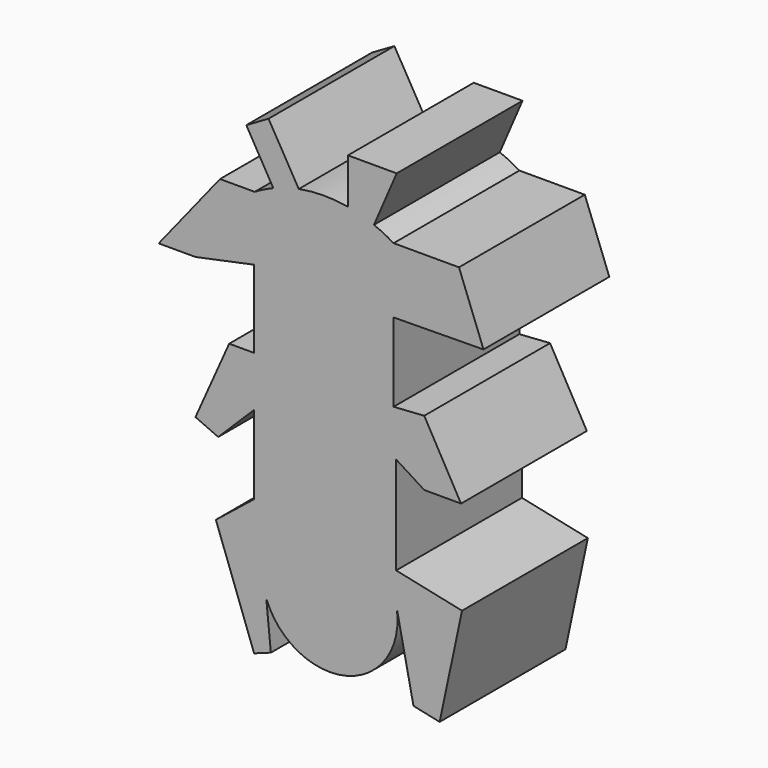
from build123d import *

# Parameters (mm, degrees)
F1_DEPTH = 25.4


with BuildPart() as f1:
    # F0 (on Front) → F1 (new body)
    with BuildSketch(Plane.XZ):
        with BuildLine():
            Line((-12.4426856389, -12.9730125086), (-13.1896968379, -5.4903274543))
            ThreePointArc((-13.1896968379, -5.4903274543), (-0.1668346208, -12.2836148574), (7.8865187243, 0))
            Line((7.8865187243, 0), (10.5906810166, -13.0574683954))
            Line((10.5906810166, -13.0574683954), (14.8144917242, -13.957073912))
            Line((14.8144917242, -13.957073912), (18.4332933277, 3.033854533))
            Line((18.4332933277, 3.033854533), (7.791120559, 5.3004706278))
            Line((7.791120559, 5.3004706278), (7.791120559, 21.074494347))
            Line((7.791120559, 21.074494347), (12.3297581449, 18.2102192193))
            Line((12.3297581449, 18.2102192193), (18.2683356106, 18.2102192193))
            Line((18.2683356106, 18.2102192193), (12.3297581449, 28.7676900625))
            Line((12.3297581449, 28.7676900625), (7.380944211, 28.4377671778))
            Line((7.380944211, 28.4377671778), (7.380944211, 41.1397255957))
            Line((7.380944211, 41.1397255957), (21.8974649906, 41.3046851754))
            Line((21.8974649906, 41.3046851754), (17.9384145886, 51.6971945763))
            Line((17.9384145886, 51.6971945763), (7.380944211, 51.6971945763))
            ThreePointArc((7.380944211, 51.6971945763), (5.8269963178, 52.5462179029), (4.209248367, 53.2662777833))
            ThreePointArc((4.209248367, 53.2662777833), (2.1348058911, 53.9718233781), (0, 54.4654932873))
            ThreePointArc((0, 54.4654932873), (-3.971449067, 54.80540535), (-7.938379177, 54.4162865973))
            ThreePointArc((-7.938379177, 54.4162865973), (-10.0209611702, 53.9098413782), (-12.0437239792, 53.2012758293))
            ThreePointArc((-12.0437239792, 53.2012758293), (-13.577773448, 52.5074144495), (-15.053678304, 51.6971945763))
            Line((-15.053678304, 51.6971945763), (-20.6623356789, 51.6971945763))
            Line((-20.6623356789, 51.6971945763), (-30.5599626154, 39.3251590431))
            Line((-30.5599626154, 39.3251590431), (-24.621386081, 39.3251590431))
            Line((-24.621386081, 39.3251590431), (-15.1529135182, 41.3046851754))
            Line((-15.1529135182, 41.3046851754), (-15.1529135182, 28.7676900625))
            Line((-15.1529135182, 28.7676900625), (-19.177692011, 28.7676900625))
            Line((-19.177692011, 28.7676900625), (-24.621386081, 16.560614109))
            Line((-24.621386081, 16.560614109), (-20.9508969498, 14.9237749517))
            Line((-20.9508969498, 14.9237749517), (-15.1529135182, 20.6647776067))
            Line((-15.1529135182, 20.6647776067), (-15.1529135182, 7.9636173323))
            Line((-15.1529135182, 7.9636173323), (-21.3221795857, 3.033854533))
            Line((-21.3221795857, 3.033854533), (-15.1529135182, -13.957073912))
            Line((-15.1529135182, -13.957073912), (-12.4426856389, -12.9730125086))
        make_face()
        with BuildLine():
            ThreePointArc((-13.1896968379, -5.4903274543), (-13.8154393629, -2.7802733754), (-13.7378070503, 0))
            Line((-13.7378070503, 0), (-13.1896968379, -5.4903274543))
        make_face(mode=Mode.SUBTRACT)
        with BuildLine():
            ThreePointArc((0, 54.4654932873), (2.1348058911, 53.9718233781), (4.209248367, 53.2662777833))
            Line((4.209248367, 53.2662777833), (7.8750308603, 61.7822111755))
            Line((7.8750308603, 61.7822111755), (0, 61.7822111755))
            Line((0, 61.7822111755), (0, 54.4654932873))
        make_face()
        with BuildLine():
            Line((-16.4149385959, 60.7384818016), (-12.0437239792, 53.2012758293))
            ThreePointArc((-12.0437239792, 53.2012758293), (-10.0209611702, 53.9098413782), (-7.938379177, 54.4162865973))
            Line((-7.938379177, 54.4162865973), (-12.8155713901, 62.8259405494))
            Line((-12.8155713901, 62.8259405494), (-16.4149385959, 60.7384818016))
        make_face()
        with BuildLine():
            Line((-13.1896968379, -5.4903274543), (-13.7378070503, 0))
            ThreePointArc((-13.7378070503, 0), (-13.8154393629, -2.7802733754), (-13.1896968379, -5.4903274543))
        make_face()
    extrude(amount=F1_DEPTH)


solid = f1.part
